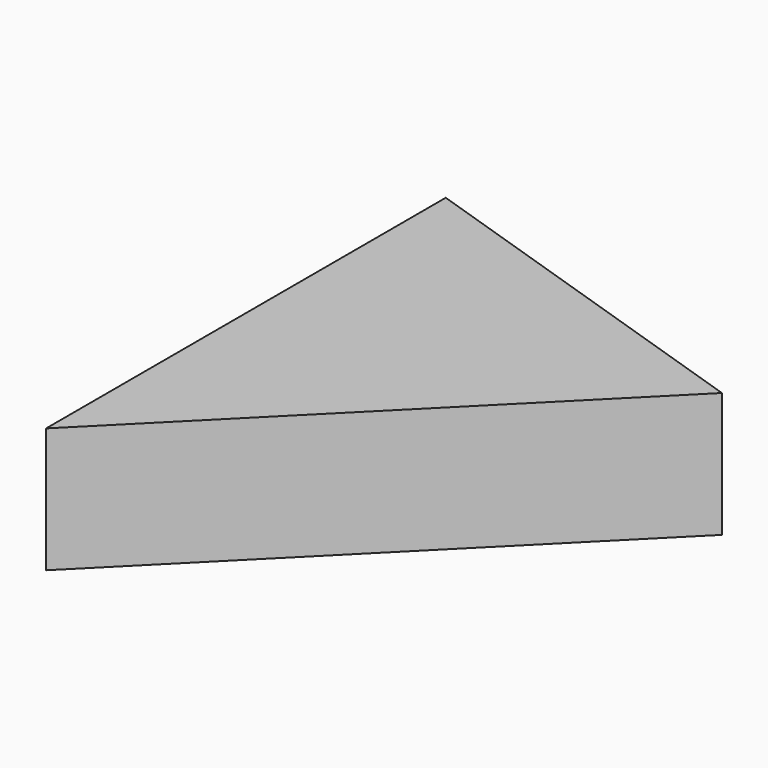
from build123d import *

# Parameters (mm, degrees)
PAD_DEPTH = 0.015


with BuildPart() as part:
    # Sketch → Pad (new body, symmetric)
    with BuildSketch(Plane.XY):
        Polygon((-0.03, 0.049861), (-0.03, -0.070139), (0.06, 0.020279), align=None)
    extrude(amount=PAD_DEPTH, both=True)


solid = part.part
